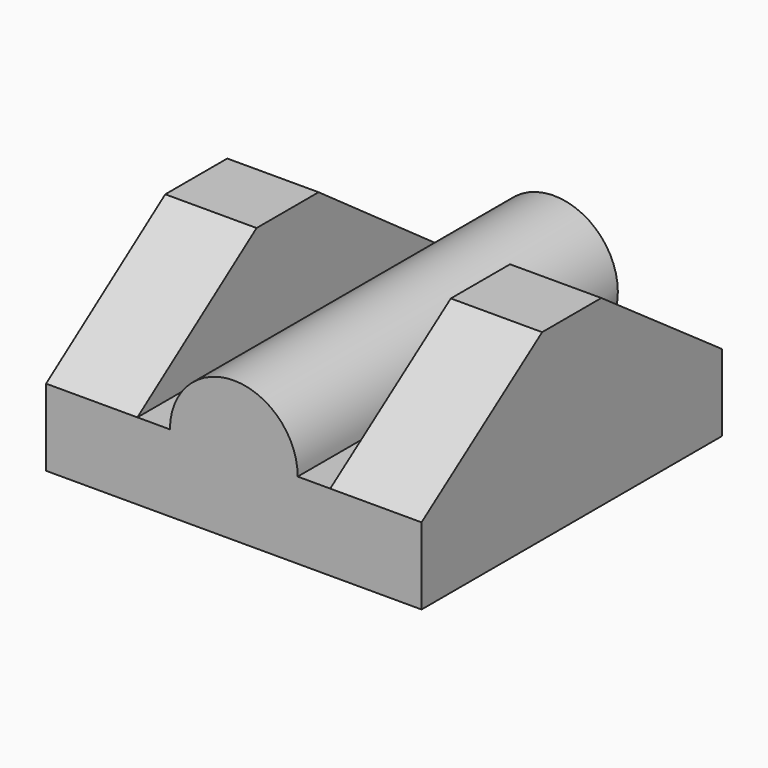
from build123d import *

# Parameters (mm, degrees)
F0_W     = 63.5
F0_H     = 63.5
F1_DEPTH = 12.97857
F3_DEPTH = 15.4432
F5_DEPTH = 15.4432
F6_R     = 10.804418
F7_DEPTH = 67.67966


with BuildPart() as f1:
    # F0 (on Top) → F1 (new body)
    with BuildSketch(Plane.XY):
        Rectangle(F0_W, F0_H)
    extrude(amount=F1_DEPTH)

    # F4 (on face) → F5 (join)
    with BuildSketch(Plane.YZ.offset(31.75)):
        Polygon((-6.257765, 30.928377), (-31.75, 12.97857), (31.75, 12.97857), (6.257765, 30.928377), align=None)
    extrude(amount=-F5_DEPTH)

    # F6 (on face) → F7 (join)
    with BuildSketch(Plane.XZ.offset(31.75)):
        with Locations((0, 12.97857)):
            Circle(F6_R)
    extrude(amount=-F7_DEPTH)


with BuildPart() as f3:
    # F2 (on face) → F3 (new body)
    with BuildSketch(Plane(origin=(-31.75, 0, 0), x_dir=(0, -1, 0), z_dir=(-1, 0, 0))):
        Polygon((-6.555754, 30.928377), (-31.75, 12.97857), (31.75, 12.97857), (6.555754, 30.928377), align=None)
    extrude(amount=-F3_DEPTH)


solid = Compound([f1.part, f3.part])
